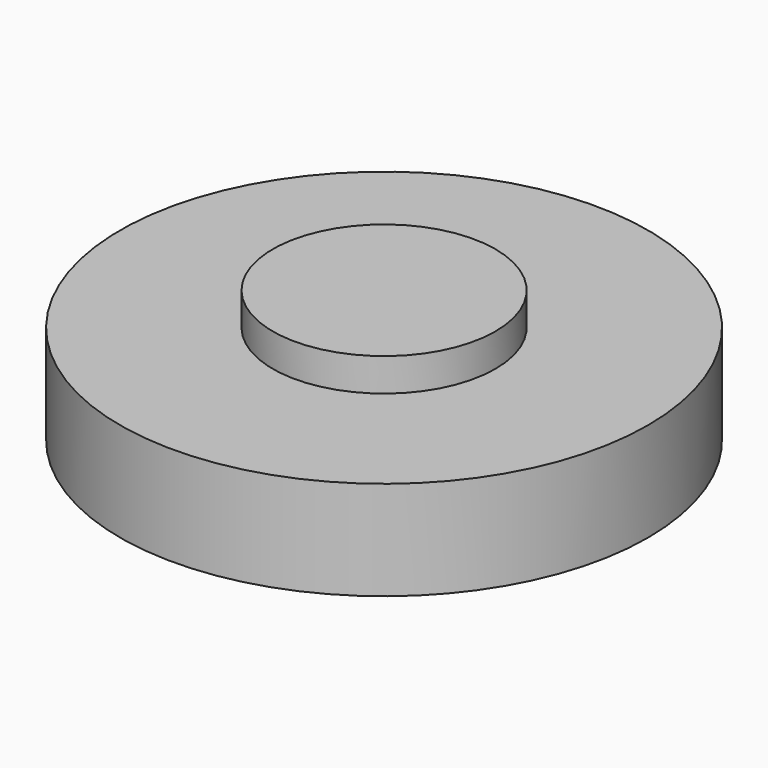
from build123d import *

# Parameters (mm, degrees)
SKETCH_01_WHEEL_PROFILE_R           = 32
PAD_02_WHEEL_DEPTH                  = 12
SKETCH_03_FRONTHUB_PROFILE_R        = 13.5
PAD_04_FRONTHUB_DEPTH               = 4
SKETCH_05_CENTER_SCREW_HOLE_R       = 1.2
POCKET_06_CENTER_SCREW_HOLE_DEPTH   = 18
SKETCH_07_SERVOHORN_POCKET_R        = 10.4
POCKET_08_SERVOHORN_POCKET_DEPTH    = 2.6
SKETCH_09_HORN_SCREW_HOLES_4X_R     = 1.1
POCKET_10_HORN_SCREW_HOLES_4X_DEPTH = 18
SKETCH_11_SPOKE_CUTOUTS_6X_R        = 4
POCKET_12_SPOKE_CUTOUTS_6X_DEPTH    = 18


with BuildPart() as part:
    # Sketch_01_Wheel_Profile → Pad_02_Wheel (new body)
    with BuildSketch(Plane.XY):
        Circle(SKETCH_01_WHEEL_PROFILE_R)
    extrude(amount=PAD_02_WHEEL_DEPTH)

    # Sketch_03_FrontHub_Profile → Pad_04_FrontHub (join)
    with BuildSketch(Plane.XY.offset(12)):
        Circle(SKETCH_03_FRONTHUB_PROFILE_R)
    extrude(amount=PAD_04_FRONTHUB_DEPTH)

    # Sketch_05_Center_Screw_Hole → Pocket_06_Center_Screw_Hole (cut)
    with BuildSketch(Plane.XY.offset(16)):
        Circle(SKETCH_05_CENTER_SCREW_HOLE_R)
    extrude(amount=POCKET_06_CENTER_SCREW_HOLE_DEPTH, mode=Mode.SUBTRACT)

    # Sketch_07_ServoHorn_Pocket → Pocket_08_ServoHorn_Pocket (cut)
    with BuildSketch(Plane.XY.offset(16)):
        Circle(SKETCH_07_SERVOHORN_POCKET_R)
    extrude(amount=POCKET_08_SERVOHORN_POCKET_DEPTH, mode=Mode.SUBTRACT)

    # Sketch_09_Horn_Screw_Holes_4x → Pocket_10_Horn_Screw_Holes_4x (cut)
    with BuildSketch(Plane.XY.offset(16)):
        with Locations((7.5, 0)):
            Circle(SKETCH_09_HORN_SCREW_HOLES_4X_R)
        with Locations((0, 7.5)):
            Circle(SKETCH_09_HORN_SCREW_HOLES_4X_R)
        with Locations((-7.5, 0)):
            Circle(SKETCH_09_HORN_SCREW_HOLES_4X_R)
        with Locations((0, -7.5)):
            Circle(SKETCH_09_HORN_SCREW_HOLES_4X_R)
    extrude(amount=POCKET_10_HORN_SCREW_HOLES_4X_DEPTH, mode=Mode.SUBTRACT)

    # Sketch_11_Spoke_Cutouts_6x → Pocket_12_Spoke_Cutouts_6x (cut)
    with BuildSketch(Plane.XY.offset(16)):
        with Locations((19.5, 0)):
            Circle(SKETCH_11_SPOKE_CUTOUTS_6X_R)
        with Locations((9.75, 16.887495)):
            Circle(SKETCH_11_SPOKE_CUTOUTS_6X_R)
        with Locations((-9.75, 16.887495)):
            Circle(SKETCH_11_SPOKE_CUTOUTS_6X_R)
        with Locations((-19.5, 0)):
            Circle(SKETCH_11_SPOKE_CUTOUTS_6X_R)
        with Locations((-9.75, -16.887495)):
            Circle(SKETCH_11_SPOKE_CUTOUTS_6X_R)
        with Locations((9.75, -16.887495)):
            Circle(SKETCH_11_SPOKE_CUTOUTS_6X_R)
    extrude(amount=POCKET_12_SPOKE_CUTOUTS_6X_DEPTH, mode=Mode.SUBTRACT)


solid = part.part
